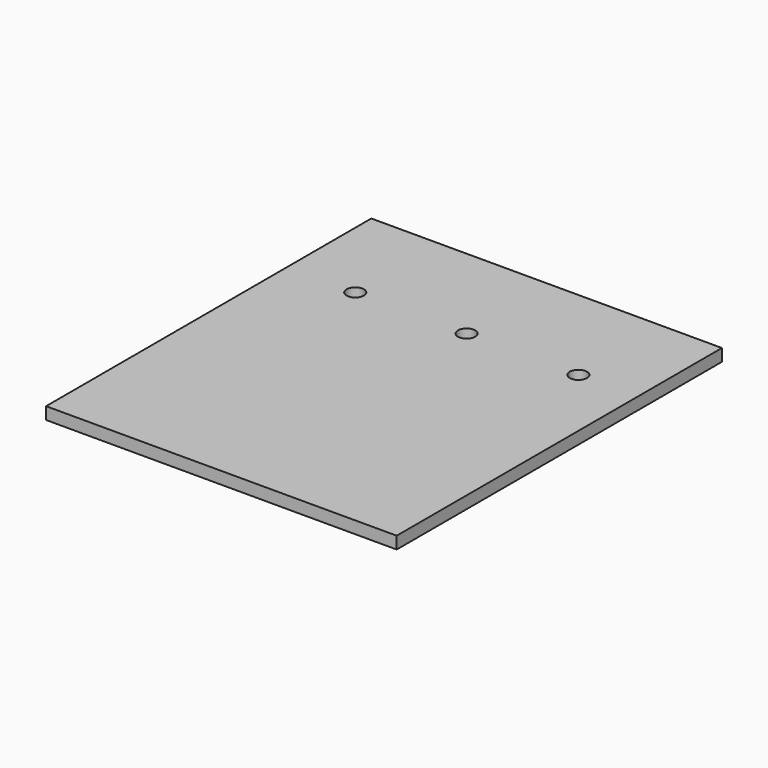
from build123d import *

# Parameters (mm, degrees)
F0_W     = 345
F0_H     = 400
F1_DEPTH = 12
F2_D     = 17
F2_DEPTH = 12
F2_TIP   = 5.1073152617


with BuildPart() as f1:
    # F0 (on Top) → F1 (new body)
    with BuildSketch(Plane.XY):
        with Locations((-62.9339808226, -45.0611889362)):
            Rectangle(F0_W, F0_H)
    extrude(amount=F1_DEPTH)

    # F2
    with Locations(Plane(origin=(0, 0, 0), x_dir=(1, 0, 0), z_dir=(0, 0, -1))):
        with Locations((-168.1544780731, -51.1390939355), (-58.6112849414, -51.1390939355), (51.4390543103, -51.1390939355)):
            Hole(F2_D / 2, depth=F2_DEPTH)
            with Locations((0, 0, -(F2_DEPTH + F2_TIP / 2))):  # 118° drill point
                Cone(0, F2_D / 2, F2_TIP, mode=Mode.SUBTRACT)


solid = f1.part
